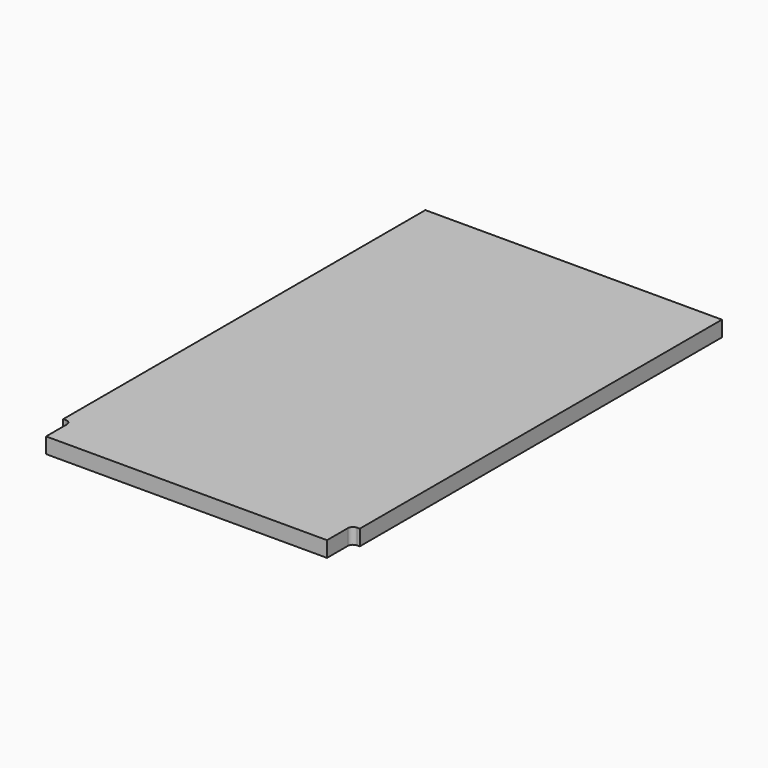
from build123d import *

# Parameters (mm, degrees)
F1_DEPTH = 19.05


with BuildPart() as f1:
    # F0 (on Top) → F1 (new body)
    with BuildSketch(Plane.XY):
        with BuildLine():
            Line((361.95, 0), (0, 0))
            Line((0, 0), (0, -552.45))
            Line((0, -552.45), (3.175, -552.45))
            ThreePointArc((3.175, -552.45), (7.665128, -554.309872), (9.525, -558.8))
            Line((9.525, -558.8), (9.525, -590.55))
            Line((9.525, -590.55), (352.425, -590.55))
            Line((352.425, -590.55), (352.425, -558.8))
            ThreePointArc((352.425, -558.8), (354.284872, -554.309872), (358.775, -552.45))
            Line((358.775, -552.45), (361.95, -552.45))
            Line((361.95, -552.45), (361.95, 0))
        make_face()
    extrude(amount=F1_DEPTH)


solid = f1.part
